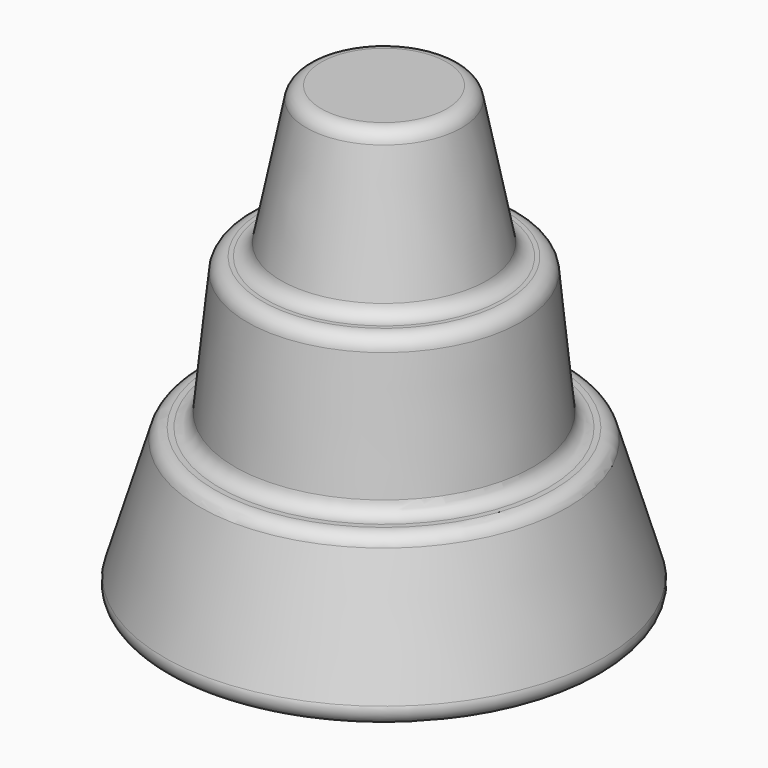
from build123d import *

# Parameters (mm, degrees)
F2_R = 1


with BuildPart() as f1:
    # F0 (on Front) → F1 (revolve)
    with BuildSketch(Plane.XZ):
        Polygon((0, 20), (0, 10), (0, 0), (15, 0), (12, 10), (10, 10), (9, 20), (7, 20), (5, 30), (0, 30), align=None)
    revolve(axis=Axis((0, 0, 5), (0, 0, -1)))

    # F2
    f2_edges = [f1.edges().sort_by_distance(p)[0] for p in [
        (-12, 0, 10),
        (-10, 0, 10),
        (-9, 0, 20),
        (-15, 0, 0),
        (-7, 0, 20),
        (-5, 0, 30),
    ]]
    fillet(f2_edges, radius=F2_R)


solid = f1.part
